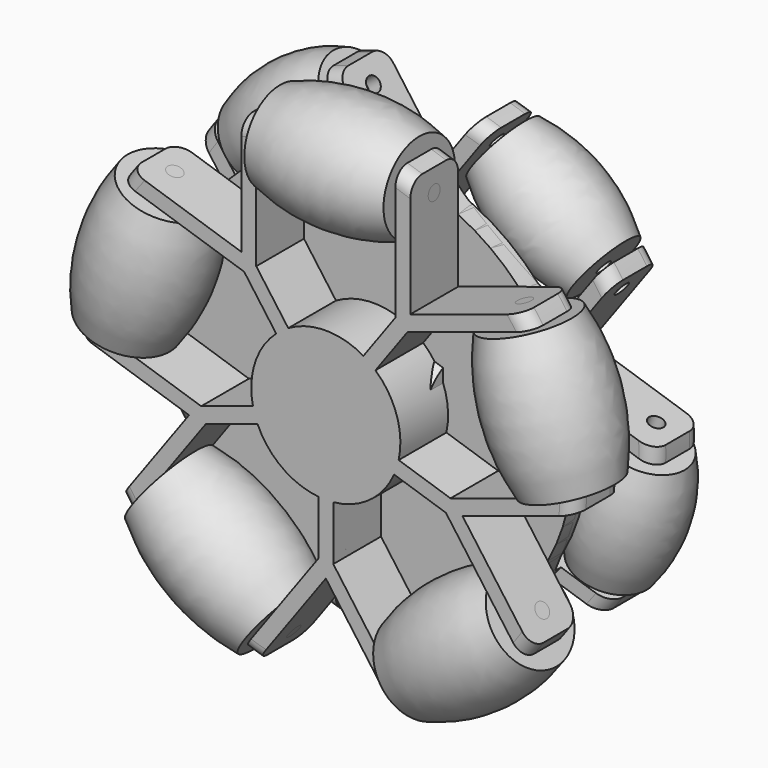
from build123d import *

# Parameters (mm, degrees)
ARRAY_COUNT              = 5
ARRAY001_COUNT           = 5
CLONE007_PLACEMENT_ANGLE = 180
SKETCH_R                 = 40
PAD_DEPTH                = 4
SKETCH001_R              = 50
PAD001_DEPTH             = 12
FILLET_R                 = 3
POCKET_DEPTH             = 12
POLARPATTERN_COUNT       = 5
CLONE002_PLACEMENT_ANGLE = 180
CLONE009_ROLL_ANGLE      = 180


with BuildPart() as revolution:
    # Sketch004 → Revolution (revolve)
    with BuildSketch(Plane.XZ):
        with BuildLine():
            Line((-14, 9), (-14, 1.5))
            Line((-14, 1.5), (-17, 1.5))
            Line((-17, 1.5), (-17, 0))
            Line((-17, 0), (17, 0))
            Line((17, 0), (17, 1.5))
            Line((17, 1.5), (14, 1.5))
            Line((14, 1.5), (14, 9))
            ThreePointArc((14, 9), (0, 11.5), (-14, 9))
        make_face()
    revolve(axis=Axis((0, 0, 0), (1, 0, 0)))


with BuildPart() as array:
    # Clone base: copy of Revolution
    add(revolution.part)


with BuildPart() as array_1:
    # Clone placement: moved
    add(array.part.moved(Location((0, -10, 42.5))))

    # Array: Array ×5 about axis
    array_axis = Axis((0, 0, 0), (0, 1, 0))


with BuildPart() as array_2:
    add(array_1.part)
    for i in range(1, ARRAY_COUNT):
        add(array_1.part.rotate(array_axis, i * 360 / ARRAY_COUNT))


with BuildPart() as revolution001:
    # Sketch005 → Revolution001 (revolve)
    with BuildSketch(Plane.XZ):
        with BuildLine():
            Line((-12.5, 7.5), (-12.5, 1.5))
            Line((-12.5, 1.5), (12.5, 1.5))
            Line((12.5, 1.5), (12.5, 7.5))
            ThreePointArc((12.5, 7.5), (0, 10), (-12.5, 7.5))
        make_face()
    revolve(axis=Axis((0, 0, 0), (1, 0, 0)))


with BuildPart() as array001:
    # Clone005 base: copy of Revolution001
    add(revolution001.part)


with BuildPart() as array001_1:
    # Clone005 placement: moved
    add(array001.part.moved(Location((0, -10, 42.5))))

    # Array001: Array001 ×5 about axis
    array001_axis = Axis((0, 0, 0), (0, 1, 0))


with BuildPart() as array001_2:
    add(array001_1.part)
    for i in range(1, ARRAY001_COUNT):
        add(array001_1.part.rotate(array001_axis, i * 360 / ARRAY001_COUNT))


with BuildPart() as clone_of_array002:
    # Clone006 base: copy of Array001
    add(array001_2.part)


with BuildPart() as clone_of_clone_of_array002:
    # Clone007 base: copy of Clone of Array002
    add(clone_of_array002.part)


with BuildPart() as clone_of_clone_of_array002_1:
    # Clone007 placement: moved
    add(clone_of_clone_of_array002.part.rotate(Axis((0, 0, 0), (1, 0, 0)), CLONE007_PLACEMENT_ANGLE))


with BuildPart() as fusion002:
    # Fusion002 base: copy of Clone of Array002
    add(clone_of_array002.part)

    # Fusion002: union Clone of Clone of Array002
    add(clone_of_clone_of_array002_1.part)


with BuildPart() as polarpattern:
    # Sketch → Pad (new body)
    with BuildSketch(Plane.XZ):
        Circle(SKETCH_R)
    extrude(amount=PAD_DEPTH)

    # Sketch001 → Pad001 (new body)
    with BuildSketch(Plane.XZ.offset(4)):
        Circle(SKETCH001_R)
    extrude(amount=PAD001_DEPTH)

    # Fillet
    fillet_edges = [polarpattern.edges().sort_by_distance(p)[0] for p in [
        (-50, -16, 0),
        (-50, -4, 0),
    ]]
    fillet(fillet_edges, radius=FILLET_R)

    # Sketch006 → Pocket (cut)
    with BuildSketch(Plane.XZ.offset(16)):
        with BuildLine():
            Line((-14, 50), (14, 50))
            Line((14, 50), (14, 21.8212993117))
            Line((14, 21.8212993117), (7.5590586347, 12.9561040656))
            ThreePointArc((7.5590586347, 12.9561040656), (0, 15), (-7.5590586346, 12.9561040656))
            Line((-14, 21.8212993117), (-7.5590586347, 12.9561040656))
            Line((-14, 50), (-14, 21.8212993117))
        make_face()
        Polygon((17, 49.4521758989), (17, 23.398492648), (41.7785252292, 31.4495235386), align=None)
    pocket = extrude(amount=-POCKET_DEPTH, mode=Mode.SUBTRACT)

    # PolarPattern: Pocket ×5 about axis
    polarpattern_axis = Axis((0, -16, 0), (0, -1, 0))
    for i in range(1, POLARPATTERN_COUNT):
        add(pocket.rotate(polarpattern_axis, i * 360 / POLARPATTERN_COUNT), mode=Mode.SUBTRACT)


with BuildPart() as clone_of_array001:
    # Clone004 base: copy of Array
    add(array_2.part)


with BuildPart() as fusion001:
    # Clone002 base: copy of Array
    add(array_2.part)


with BuildPart() as fusion001_1:
    # Clone002 placement: moved
    add(fusion001.part.rotate(Axis((0, 0, 0), (1, 0, 0)), CLONE002_PLACEMENT_ANGLE))

    # Fusion001: union Clone of Array001
    add(clone_of_array001.part)


with BuildPart() as clone_of_polarpattern001:
    # Clone009 base: copy of PolarPattern
    add(polarpattern.part)


with BuildPart() as clone_of_polarpattern001_1:
    # Clone009 roll: moved
    add(clone_of_polarpattern001.part.rotate(Axis((0, 0, 0), (1, 0, 0)), CLONE009_ROLL_ANGLE))


with BuildPart() as clone_of_polarpattern001_2:
    # Clone009 placement: moved
    add(clone_of_polarpattern001_1.part)


with BuildPart() as cut:
    # Clone008 base: copy of PolarPattern
    add(polarpattern.part)

    # Fusion: union Clone of PolarPattern001
    add(clone_of_polarpattern001_2.part)

    # Cut: cut Fusion001
    add(fusion001_1.part, mode=Mode.SUBTRACT)


solid = Compound([revolution.part, array_2.part, revolution001.part, array001_2.part, fusion002.part, polarpattern.part, cut.part])
